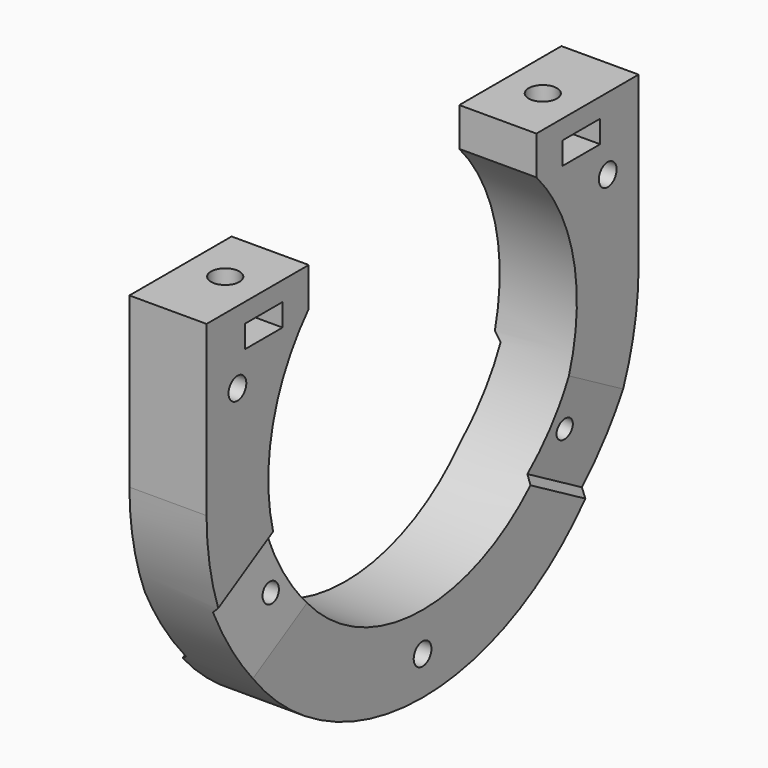
from build123d import *

# Parameters (mm, degrees)
PAD006_DEPTH          = 12
SKETCH077_R           = 1.725
HOLE036_DEPTH         = 12.001
SKETCH067_R           = 2.2
POCKET040_DEPTH       = 12
POCKET041_DEPTH       = 3.5
SKETCH027_R           = 1.5
POCKET042_DEPTH       = 227.579227
POCKET042_DEPTH_BACK  = 228.768023
POCKET043_DEPTH       = 275.16353
POLARPATTERN003_COUNT = 2
POLARPATTERN003_ANGLE = 240


with BuildPart() as part:
    # Sketch021 → Pad006 (new body)
    with BuildSketch(Plane.YZ):
        with BuildLine():
            Line((-42, 26.25), (-22.134532, 26.25))
            Line((-22.134532, 26.25), (-22.134532, 20.25))
            ThreePointArc((-22.134532, 20.25), (0, -30), (22.134532, 20.25))
            Line((22.134532, 26.25), (22.134532, 20.25))
            Line((22.134532, 26.25), (42, 26.25))
            Line((42, 26.25), (42, 7.3e-05))
            ThreePointArc((0, -42), (29.698511, -29.698459), (42, 7.3e-05))
            ThreePointArc((-42, 7.2e-05), (-29.69851, -29.69846), (0, -42))
            Line((-42, 26.25), (-42, 7.2e-05))
        make_face()
    extrude(amount=PAD006_DEPTH)

    # Sketch077 (on DatumPlane) → Hole036 (cut, through all)
    with BuildSketch(Plane.YZ.offset(12)):
        with Locations((0, -36)):
            Circle(SKETCH077_R)
        with Locations((-36, 15)):
            Circle(SKETCH077_R)
        with Locations((36, 15)):
            Circle(SKETCH077_R)
    extrude(amount=-HOLE036_DEPTH, mode=Mode.SUBTRACT)

    # Sketch067 (on DatumPlane) → Pocket040 (cut)
    with BuildSketch(Plane(origin=(6, 0, 26.25), x_dir=(1, 0, 0), z_dir=(0, 0, 1))):
        with Locations((0, 30.875)):
            Circle(SKETCH067_R)
        with Locations((0, -30.875)):
            Circle(SKETCH067_R)
    extrude(amount=-POCKET040_DEPTH, mode=Mode.SUBTRACT)

    # Sketch068 (on DatumPlane) → Pocket041 (cut)
    with BuildSketch(Plane(origin=(6, 0, 23.25), x_dir=(1, 0, 0), z_dir=(0, 0, 1))):
        Polygon((-2.107328, -27.225), (-4.214657, -30.875), (-2.107328, -34.525), (9.892672, -34.525), (9.892672, -27.225), align=None)
        Polygon((-2.107328, 34.525), (-4.214657, 30.875), (-2.107328, 27.225), (9.892672, 27.225), (9.892672, 34.525), align=None)
    extrude(amount=-POCKET041_DEPTH, mode=Mode.SUBTRACT)

    # Sketch027 (on DatumPlane) → Pocket042 (cut, two sides)
    with BuildSketch(Plane(origin=(6, 0, 0), x_dir=(0.087156, 0.498097, 0.86273), z_dir=(0.996195, -0.043578, -0.075479))) as pocket042_sk:
        with Locations((0, -33)):
            Circle(SKETCH027_R)
    pocket042 = extrude(amount=-POCKET042_DEPTH, mode=Mode.SUBTRACT) + extrude(pocket042_sk.sketch, amount=POCKET042_DEPTH_BACK, mode=Mode.SUBTRACT)

    # Sketch066 (on DatumPlane) → Pocket043 (cut, through all)
    with BuildSketch(Plane(origin=(6, 0, 0), x_dir=(1, 0, 0), z_dir=(0, -0.866025, 0.5))):
        Polygon((6, 5.999897), (7, 5.999897), (7, -9.083659), (4.866975, -6.950634), align=None)
        Polygon((-7, 9.083659), (-4.866975, 6.950634), (-6, -5.999897), (-7, -5.999897), align=None)
    pocket043 = extrude(amount=-POCKET043_DEPTH, mode=Mode.SUBTRACT)

    # PolarPattern003: Pocket043, Pocket042 ×2 about axis
    polarpattern003_axis = Axis((0, 0, 0), (1, 0, 0))
    for i in range(1, POLARPATTERN003_COUNT):
        add(pocket043.rotate(polarpattern003_axis, i * POLARPATTERN003_ANGLE / (POLARPATTERN003_COUNT - 1)), mode=Mode.SUBTRACT)
        add(pocket042.rotate(polarpattern003_axis, i * POLARPATTERN003_ANGLE / (POLARPATTERN003_COUNT - 1)), mode=Mode.SUBTRACT)


with BuildPart() as part_1:
    # Body022004 placement: moved
    add(part.part.moved(Location((123, 0, 834))))


solid = part_1.part
